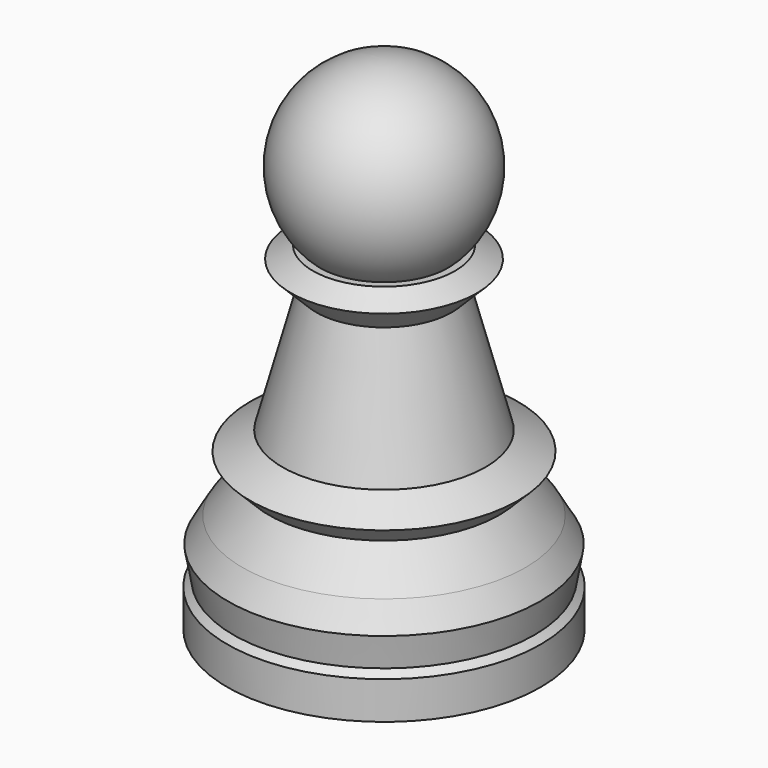
from build123d import *

# Parameters (mm, degrees)
F0_R      = 12.5
F1_DEPTH  = 3
F1_FACE_R = 12.5
F2_DEPTH  = 0.5
F2_TAPER  = 45
F2_FACE_R = 12
F3_DEPTH  = 2.5
F3_TAPER  = -10
F3_FACE_R = 12.4408174518
F4_DEPTH  = 2
F4_TAPER  = 30
F4_FACE_R = 11.2861169134
F5_DEPTH  = 3
F5_TAPER  = 35
F5_FACE_R = 9.1854942988
F6_DEPTH  = 1.5
F6_TAPER  = -45
F6_FACE_R = 10.6854942988
F7_DEPTH  = 1.5
F7_TAPER  = 60
F7_FACE_R = 8.0874180874
F8_DEPTH  = 10
F8_TAPER  = 15
F8_FACE_R = 5.4079261631
F9_DEPTH  = 2
F9_TAPER  = -45
F9_FACE_R = 7.4079261631
F10_DEPTH = 1
F10_TAPER = 60


with BuildPart() as f1:
    # F0 (on Top) → F1 (new body)
    with BuildSketch(Plane.XY):
        Circle(F0_R)
    extrude(amount=F1_DEPTH)

    # F1_face (on face) → F2 (join)
    with BuildSketch(Plane.XY.offset(3)):
        Circle(F1_FACE_R)
    extrude(amount=F2_DEPTH, taper=F2_TAPER)

    # F2_face (on face) → F3 (join)
    with BuildSketch(Plane.XY.offset(3.5)):
        Circle(F2_FACE_R)
    extrude(amount=F3_DEPTH, taper=F3_TAPER)

    # F3_face (on face) → F4 (join)
    with BuildSketch(Plane.XY.offset(6)):
        Circle(F3_FACE_R)
    extrude(amount=F4_DEPTH, taper=F4_TAPER)

    # F4_face (on face) → F5 (join)
    with BuildSketch(Plane.XY.offset(8)):
        Circle(F4_FACE_R)
    extrude(amount=F5_DEPTH, taper=F5_TAPER)

    # F5_face (on face) → F6 (join)
    with BuildSketch(Plane.XY.offset(11)):
        Circle(F5_FACE_R)
    extrude(amount=F6_DEPTH, taper=F6_TAPER)

    # F6_face (on face) → F7 (join)
    with BuildSketch(Plane.XY.offset(12.5)):
        Circle(F6_FACE_R)
    extrude(amount=F7_DEPTH, taper=F7_TAPER)

    # F7_face (on face) → F8 (join)
    with BuildSketch(Plane.XY.offset(14)):
        Circle(F7_FACE_R)
    extrude(amount=F8_DEPTH, taper=F8_TAPER)

    # F8_face (on face) → F9 (join)
    with BuildSketch(Plane.XY.offset(24)):
        Circle(F8_FACE_R)
    extrude(amount=F9_DEPTH, taper=F9_TAPER)

    # F9_face (on face) → F10 (join)
    with BuildSketch(Plane.XY.offset(26)):
        Circle(F9_FACE_R)
    extrude(amount=F10_DEPTH, taper=F10_TAPER)


with BuildPart() as f12:
    # F11 (on Front) → F12 (revolve)
    with BuildSketch(Plane.XZ):
        with BuildLine():
            ThreePointArc((0, 40), (-7.5, 32.5), (0, 25))
            Line((0, 25), (0, 40))
        make_face()
    revolve(axis=Axis((0, 0, 32.5), (0, 0, 1)))


solid = Compound([f1.part, f12.part])
